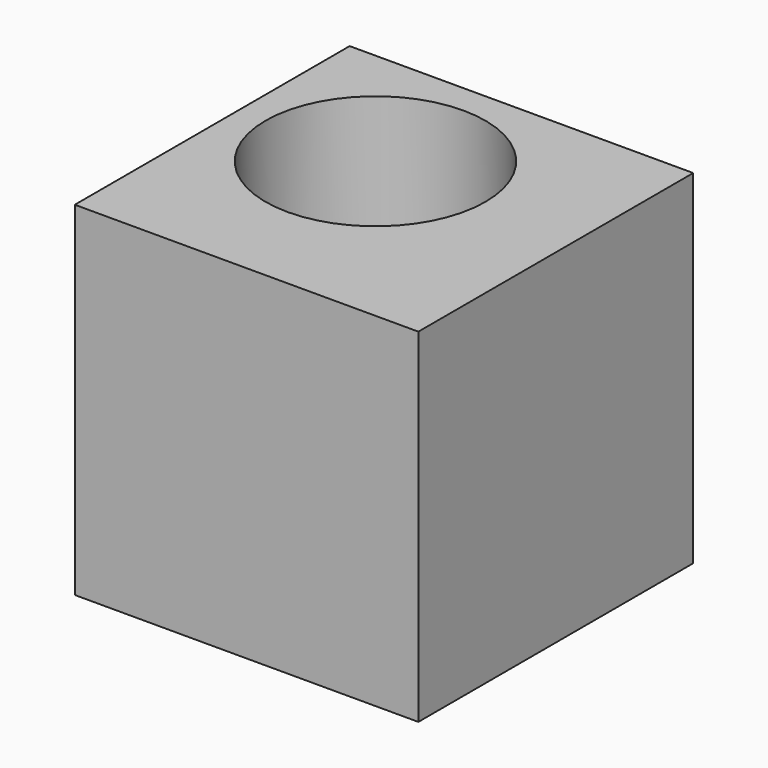
from build123d import *

# Parameters (mm, degrees)
SKETCH027_W      = 5
SKETCH027_H      = 5
EXTRUDE017_DEPTH = 5
SKETCH028_R      = 1.6
HOLE004_DEPTH    = 2.2
HOLE004_TIPS_R   = 1.6


with BuildPart() as part:
    # Sketch027 (on Face9 of Pocket) → Extrude017 (new body)
    with BuildSketch(Plane.XZ.offset(16.37)):
        with Locations((4.5, 18.8)):
            Rectangle(SKETCH027_W, SKETCH027_H)
    extrude(amount=EXTRUDE017_DEPTH)

    # Sketch028 (on Face1 of Extrude017) → Hole004 (cut)
    with BuildSketch(Plane.XY.offset(21.3)):
        with Locations((4, -18.4)):
            Circle(SKETCH028_R)
    extrude(amount=-HOLE004_DEPTH, mode=Mode.SUBTRACT)

    # Hole004 tips → Hole004 tip 1 section 0
    with BuildSketch(Plane.XY.offset(19.1), mode=Mode.PRIVATE) as hole004_tip_1_s0:
        with Locations((4, -18.4)):
            Circle(HOLE004_TIPS_R)
    loft([hole004_tip_1_s0.sketch, Vertex(4, -18.4, 18.138623)], mode=Mode.SUBTRACT)


solid = part.part
